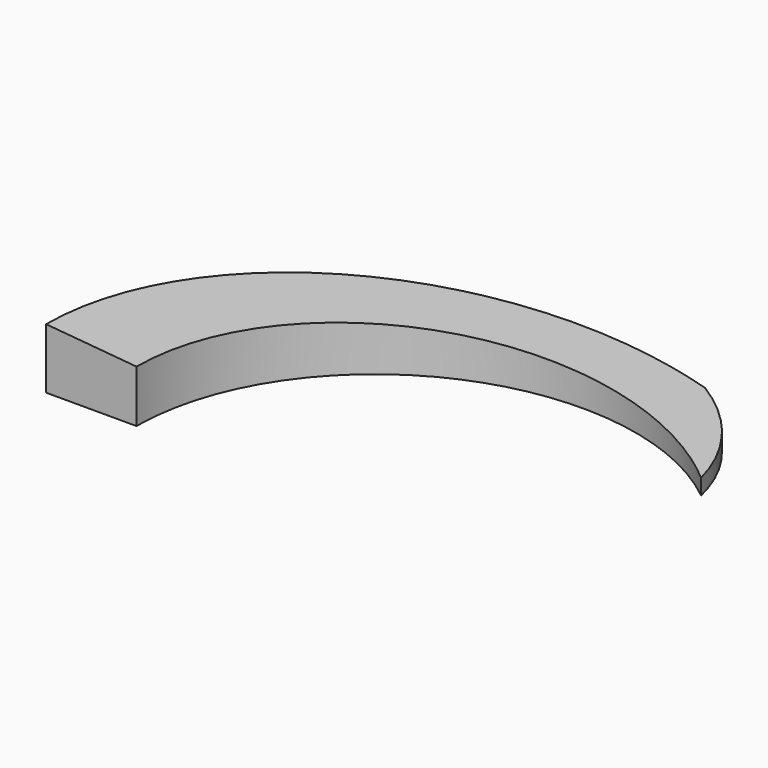
from build123d import *

# Parameters (mm, degrees)
F2_DEPTH = 5
F3_DEPTH = 40


with BuildPart() as f2:
    # F0 (on Top) → F2 (new body)
    with BuildSketch(Plane.XY):
        with BuildLine():
            ThreePointArc((13.6248775801, 15.2191164826), (12.249902452, 18.7778971604), (9.9652172859, 21.8333333333))
            add(Edge.make_bspline(
                [(9.9652172859, 21.8333333333), (-24, 37.3358113677), (-24, 0)],
                knots=[4.2842072308, 4.2842072308, 4.2842072308, 6.2831853072, 6.2831853072, 6.2831853072], degree=2, weights=[1, 0.5407321948, 1]))
            Line((-24, 0), (-21, 0))
            add(Edge.make_bspline(
                [(13.6248775801, 15.2191164826), (-21, 43.335069974), (-21, 0)],
                knots=[4.0063777086, 4.0063777086, 4.0063777086, 6.2831853072, 6.2831853072, 6.2831853072], degree=2, weights=[1, 0.4190443328, 1]))
        make_face()
        with BuildLine():
            ThreePointArc((9.9652172859, 21.8333333333), (8.4137165474, 23.1896994535), (6.679909305, 24.3036097011))
            add(Edge.make_bspline(
                [(6.679909305, 24.3036097011), (-28.5, 31.7438128999), (-28.5, 0)],
                knots=[1.3342127103, 1.3342127103, 1.3342127103, 3.1415926536, 3.1415926536, 3.1415926536], degree=2, weights=[1, 0.6187152889, 1]))
            Line((-28.5, 0), (-24, 0))
            add(Edge.make_bspline(
                [(9.9652172859, 21.8333333333), (-24, 37.3358113677), (-24, 0)],
                knots=[4.2842072308, 4.2842072308, 4.2842072308, 6.2831853072, 6.2831853072, 6.2831853072], degree=2, weights=[1, 0.5407321948, 1]))
        make_face()
    extrude(amount=F2_DEPTH)

    # F1 (on Front) → F3 (intersect)
    with BuildSketch(Plane.XZ):
        Polygon((-28.5, 0), (28.5, 0), (-28.5, 5), align=None)
    extrude(amount=-F3_DEPTH, mode=Mode.INTERSECT)


solid = f2.part
